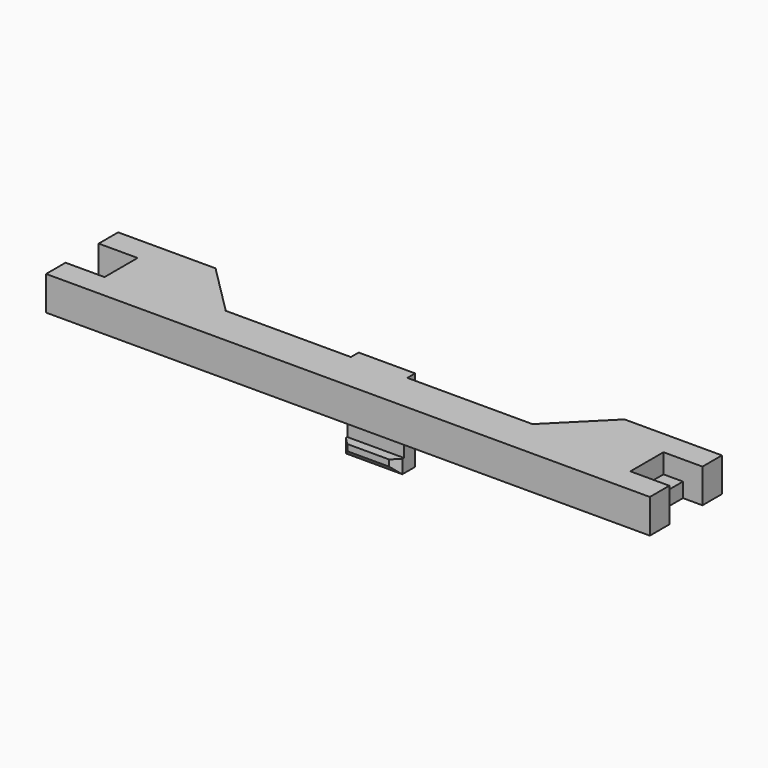
from build123d import *

# Parameters (mm, degrees)
PAD002_DEPTH    = 7
PAD003_DEPTH    = 3
CHAMFER003_SIZE = 1.5
SKETCH019_W     = 4
SKETCH019_H     = 8.5
POCKET003_DEPTH = 7.001
SKETCH020_W     = 4
SKETCH020_H     = 8.5
POCKET004_DEPTH = 4
SKETCH024_W     = 11.6
SKETCH024_H     = 2.9
PAD006_DEPTH    = 16.9
SKETCH025_W     = 11.6
SKETCH025_H     = 2.8
PAD007_DEPTH    = 1.9
CHAMFER005_SIZE = 1.5
SKETCH026_W     = 6.8
SKETCH026_H     = 10.4
PAD008_DEPTH    = 2.9


with BuildPart() as part:
    # Sketch006 → Pad002 (new body)
    with BuildSketch(Plane.XY.offset(4)):
        Polygon((-62, 2.5), (-62, -16), (62, -16), (62, 2.5), (42, 2.5), (31.5, -8), (-31.5, -8), (-42, 2.5), align=None)
    extrude(amount=PAD002_DEPTH)

    # Sketch007 (on Face9 of Pad002) → Pad003 (join)
    with BuildSketch(Plane(origin=(0, 0, 4), x_dir=(1, 0, 0), z_dir=(0, 0, -1))):
        with BuildLine():
            Line((-31.5, 8), (31.5, 8))
            Line((37.293259, 2.206741), (31.5, 8))
            Line((38.566051, 3.479533), (37.293259, 2.206741))
            Line((32.772792, 9.272792), (38.566051, 3.479533))
            ThreePointArc((32.772792, 9.272792), (32.18883, 9.662983), (31.5, 9.8))
            Line((31.5, 9.8), (-31.5, 9.8))
            ThreePointArc((-31.5, 9.8), (-32.18883, 9.662983), (-32.772792, 9.272792))
            Line((-38.566051, 3.479533), (-32.772792, 9.272792))
            Line((-37.293259, 2.206741), (-38.566051, 3.479533))
            Line((-31.5, 8), (-37.293259, 2.206741))
        make_face()
    extrude(amount=PAD003_DEPTH)

    # Chamfer003
    chamfer003_edges = [part.edges().sort_by_distance(p)[0] for p in [
        (-35.669422, -6.376163, 4),
    ]]
    chamfer(chamfer003_edges, length=CHAMFER003_SIZE)

    # Sketch019 (on Face1 of Chamfer003) → Pocket003 (cut, through all)
    with BuildSketch(Plane(origin=(0, 0, 4), x_dir=(1, 0, 0), z_dir=(0, 0, -1))):
        with Locations((-60, 6.75)):
            Rectangle(SKETCH019_W, SKETCH019_H)
        with Locations((60, 6.75)):
            Rectangle(SKETCH019_W, SKETCH019_H)
    extrude(amount=-POCKET003_DEPTH, mode=Mode.SUBTRACT)

    # Sketch020 (on Face31 of Pocket003) → Pocket004 (cut)
    with BuildSketch(Plane.XY.offset(11)):
        with Locations((-56, -6.75)):
            Rectangle(SKETCH020_W, SKETCH020_H)
        with Locations((56, -6.75)):
            Rectangle(SKETCH020_W, SKETCH020_H)
    extrude(amount=-POCKET004_DEPTH, mode=Mode.SUBTRACT)

    # Sketch024 (on Face27 of Pocket004) → Pad006 (join)
    with BuildSketch(Plane.XY.offset(11)):
        with Locations((0, -7.45)):
            Rectangle(SKETCH024_W, SKETCH024_H)
    extrude(amount=-PAD006_DEPTH)

    # Sketch025 (on Face37 of Pad006) → Pad007 (join)
    with BuildSketch(Plane.XZ.offset(8.9)):
        with Locations((0, -4.5)):
            Rectangle(SKETCH025_W, SKETCH025_H)
    extrude(amount=PAD007_DEPTH)

    # Chamfer005
    chamfer005_edges = [part.edges().sort_by_distance(p)[0] for p in [
        (0, -10.8, -5.9),
        (-5.8, -10.8, -4.5),
        (5.8, -10.8, -4.5),
    ]]
    chamfer(chamfer005_edges, length=CHAMFER005_SIZE)

    # Sketch026 (on Face37 of Chamfer005) → Pad008 (join)
    with BuildSketch(Plane(origin=(0, 0, 4), x_dir=(1, 0, 0), z_dir=(0, 0, -1))):
        with Locations((-46.5, 2.7)):
            Rectangle(SKETCH026_W, SKETCH026_H)
        with Locations((46.5, 2.7)):
            Rectangle(SKETCH026_W, SKETCH026_H)
    extrude(amount=PAD008_DEPTH)


solid = part.part
